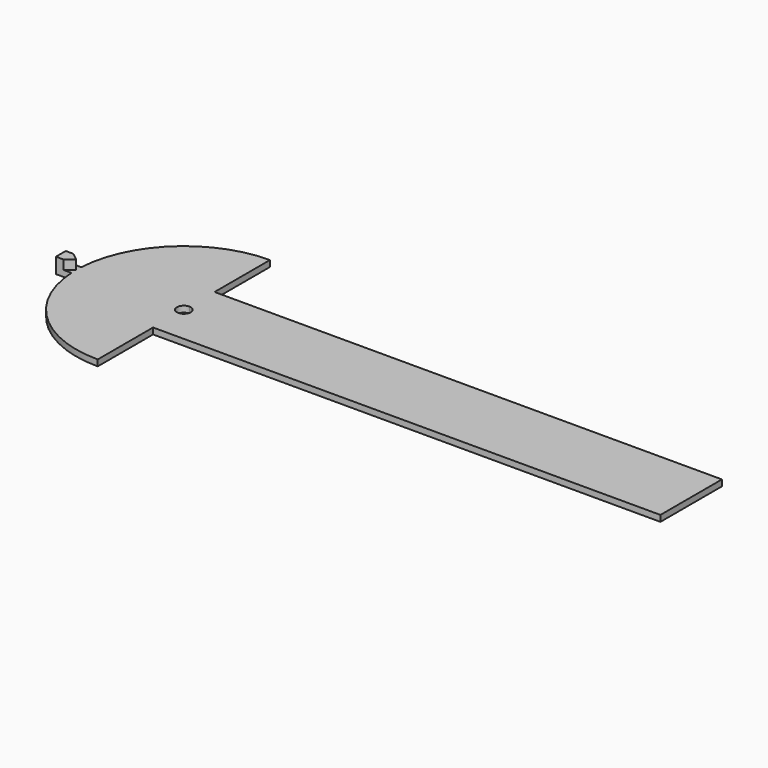
from build123d import *

# Parameters (mm, degrees)
F1_DEPTH = 2
F2_DEPTH = 5


with BuildPart() as f1:
    # F0 (on Top) → F1 (new body)
    with BuildSketch(Plane.XY):
        with BuildLine():
            Line((-65, -12.5), (100, -12.5))
            Line((100, -12.5), (100, 12.5))
            Line((100, 12.5), (-65, 12.5))
            Line((-65, 12.5), (-65, 2.25))
            ThreePointArc((-65, 2.25), (-63.40901, 1.59099), (-62.75, 0))
            ThreePointArc((-62.75, 0), (-63.40901, -1.59099), (-65, -2.25))
            Line((-65, -2.25), (-65, -12.5))
        make_face()
        with BuildLine():
            Line((-102.471405, -2), (-99.94281, -2))
            ThreePointArc((-99.94281, -2), (-99.9857, -1.000409), (-100, 0))
            Line((-100, 0), (-102.471405, -2))
        make_face()
        with BuildLine():
            Line((-65, -35), (-65, -12.5))
            Line((-65, -12.5), (-65, -2.25))
            ThreePointArc((-65, -2.25), (-67.25, 0), (-65, 2.25))
            Line((-65, 2.25), (-65, 12.5))
            Line((-65, 12.5), (-65, 35))
            ThreePointArc((-65, 35), (-89.03123, 25.446021), (-99.94281, 2))
            ThreePointArc((-99.94281, 2), (-99.9857, 1.000409), (-100, 0))
            ThreePointArc((-100, 0), (-99.9857, -1.000409), (-99.94281, -2))
            ThreePointArc((-99.94281, -2), (-89.03123, -25.446021), (-65, -35))
        make_face()
        with BuildLine():
            ThreePointArc((-100, 0), (-99.9857, 1.000409), (-99.94281, 2))
            Line((-99.94281, 2), (-102.471405, 2))
            Line((-102.471405, 2), (-100, 0))
        make_face()
    extrude(amount=F1_DEPTH)

    # F0 (on Top) → F2 (join)
    with BuildSketch(Plane.XY):
        Polygon((-102.471405, -2), (-100, 0), (-102.471405, 2), (-105, 2), (-105, 0), (-105, -2), align=None)
    extrude(amount=F2_DEPTH)


solid = f1.part
